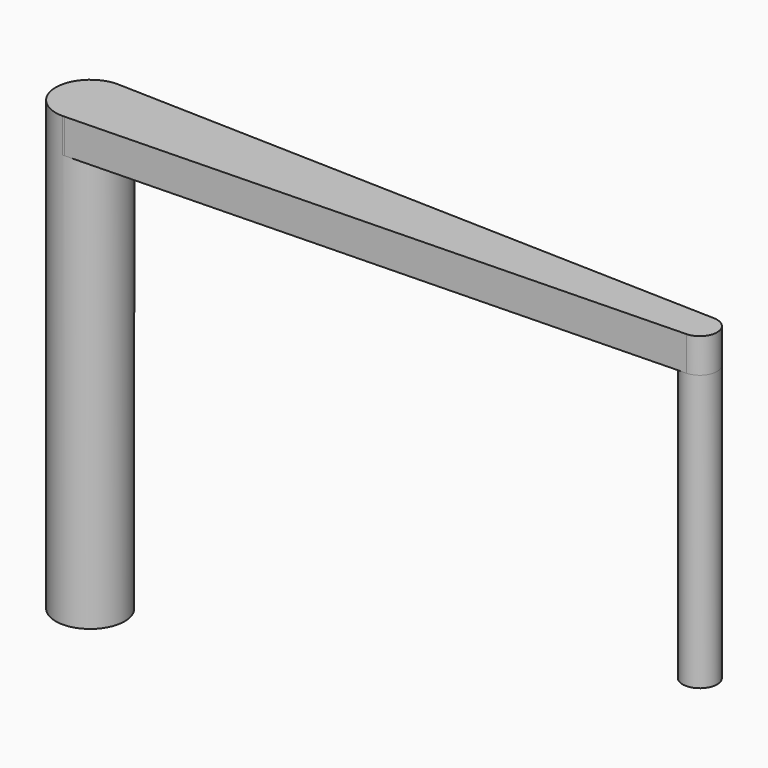
from build123d import *

# Parameters (mm, degrees)
F0_R     = 3.175
F1_DEPTH = 38.1
F3_DEPTH = 3.175
F4_R     = 1.5875
F5_DEPTH = 25.4


with BuildPart() as f1:
    # F0 (on Top) → F1 (new body)
    with BuildSketch(Plane.XY):
        Circle(F0_R)
    extrude(amount=F1_DEPTH)

    # F2 (on face) → F3 (join)
    with BuildSketch(Plane.XY.offset(38.1)):
        with BuildLine():
            Line((0, 3.175), (0.188579, 3.169395))
            ThreePointArc((0.188579, 3.169395), (0.094331, 3.173598), (0, 3.175))
        make_face()
        with BuildLine():
            Line((56.325018, 1.500813), (0.188579, 3.169395))
            Line((0.188579, 3.169395), (0, 3.175))
            ThreePointArc((0, 3.175), (-3.175, 0), (0, -3.175))
            Line((0, -3.175), (0.169236, -3.170486))
            Line((0.169236, -3.170486), (56.320177, -1.672922))
            ThreePointArc((56.320177, -1.672922), (57.865351, -0.088408), (56.325018, 1.500813))
        make_face()
        with BuildLine():
            Line((0.169236, -3.170486), (0, -3.175))
            ThreePointArc((0, -3.175), (0.084648, -3.173871), (0.169236, -3.170486))
        make_face()
    extrude(amount=F3_DEPTH)

    # F4 (on face) → F5 (join)
    with BuildSketch(Plane(origin=(0, 0, 38.1), x_dir=(1, 0, 0), z_dir=(0, 0, -1))):
        with Locations((56.277853, 0.085986)):
            Circle(F4_R)
    extrude(amount=F5_DEPTH)


solid = f1.part
